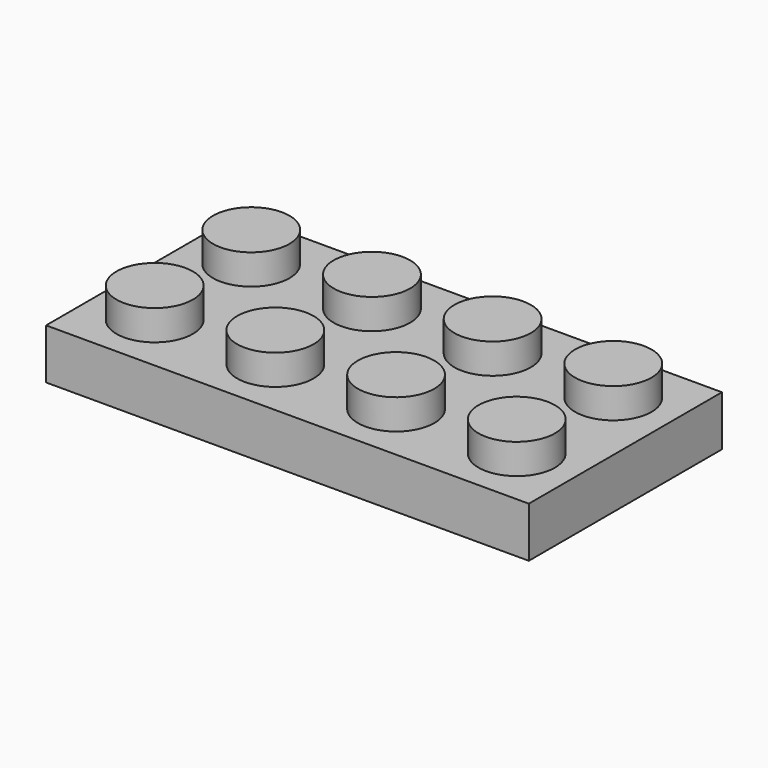
from build123d import *

# Parameters (mm, degrees)
F0_W      = 30.48
F0_H      = 15.24
F2_DEPTH  = 3.175
F1_R      = 2.413
F3_DEPTH  = 1.905
F5_R      = 1.27
F6_DEPTH  = 4.699
F4_W      = 27.94
F4_H      = 12.7
F4_R      = 3.175
F7_DEPTH  = 2.159
F8_DEPTH  = 4.699
F9_DEPTH  = 4.699
F4_R_2    = 2.54
F10_DEPTH = 2.159
F11_DEPTH = 2.159
F12_DEPTH = 2.159


with BuildPart() as f2:
    # F0 (on Top) → F2 (new body)
    with BuildSketch(Plane.XY):
        with Locations((-38.230583, 21.220251)):
            Rectangle(F0_W, F0_H)
    extrude(amount=-F2_DEPTH)

    # F1 (on face) → F3 (join)
    with BuildSketch(Plane.XY):
        with Locations((-26.800583, 25.030251)):
            Circle(F1_R)
        with Locations((-26.800583, 17.410251)):
            Circle(F1_R)
        with Locations((-34.420583, 25.030251)):
            Circle(F1_R)
        with Locations((-34.420583, 17.410251)):
            Circle(F1_R)
        with Locations((-42.040583, 25.030251)):
            Circle(F1_R)
        with Locations((-42.040583, 17.410251)):
            Circle(F1_R)
        with Locations((-49.660583, 25.030251)):
            Circle(F1_R)
        with Locations((-49.660583, 17.410251)):
            Circle(F1_R)
    extrude(amount=F3_DEPTH)

    # F5 (on face) → F6 (cut)
    with BuildSketch(Plane(origin=(0, 0, -3.175), x_dir=(1, 0, 0), z_dir=(0, 0, -1))):
        with Locations((-26.800583, -25.030251)):
            Circle(F5_R)
        with Locations((-34.420583, -25.030251)):
            Circle(F5_R)
        with Locations((-42.040583, -25.030251)):
            Circle(F5_R)
        with Locations((-49.660583, -25.030251)):
            Circle(F5_R)
        with Locations((-26.800583, -17.410251)):
            Circle(F5_R)
        with Locations((-34.420583, -17.410251)):
            Circle(F5_R)
        with Locations((-42.040583, -17.410251)):
            Circle(F5_R)
        with Locations((-49.660583, -17.410251)):
            Circle(F5_R)
    extrude(amount=-F6_DEPTH, mode=Mode.SUBTRACT)

    # F4 (on face) → F7 (cut)
    with BuildSketch(Plane(origin=(0, 0, -3.175), x_dir=(1, 0, 0), z_dir=(0, 0, -1))):
        with Locations((-38.230583, -21.220251)):
            Rectangle(F4_W, F4_H)
        with Locations((-45.850583, -21.220251)):
            Circle(F4_R, mode=Mode.SUBTRACT)
        with Locations((-38.230583, -21.220251)):
            Circle(F4_R, mode=Mode.SUBTRACT)
        with Locations((-30.610583, -21.220251)):
            Circle(F4_R, mode=Mode.SUBTRACT)
    extrude(amount=-F7_DEPTH, mode=Mode.SUBTRACT)

    # F5 (on face) → F8 (join)
    with BuildSketch(Plane(origin=(0, 0, -3.175), x_dir=(1, 0, 0), z_dir=(0, 0, -1))):
        with Locations((-49.660583, -25.030251)):
            Circle(F5_R)
    extrude(amount=-F8_DEPTH)

    # F5 (on face) → F9 (cut)
    with BuildSketch(Plane(origin=(0, 0, -3.175), x_dir=(1, 0, 0), z_dir=(0, 0, -1))):
        with Locations((-49.660583, -25.030251)):
            Circle(F5_R)
    extrude(amount=-F9_DEPTH, mode=Mode.SUBTRACT)

    # F4 (on face) → F10 (cut)
    with BuildSketch(Plane(origin=(0, 0, -3.175), x_dir=(1, 0, 0), z_dir=(0, 0, -1))):
        with Locations((-45.850583, -21.220251)):
            Circle(F4_R_2)
    extrude(amount=-F10_DEPTH, mode=Mode.SUBTRACT)

    # F4 (on face) → F11 (cut)
    with BuildSketch(Plane(origin=(0, 0, -3.175), x_dir=(1, 0, 0), z_dir=(0, 0, -1))):
        with Locations((-30.610583, -21.220251)):
            Circle(F4_R_2)
    extrude(amount=-F11_DEPTH, mode=Mode.SUBTRACT)

    # F4 (on face) → F12 (cut)
    with BuildSketch(Plane(origin=(0, 0, -3.175), x_dir=(1, 0, 0), z_dir=(0, 0, -1))):
        with Locations((-38.230583, -21.220251)):
            Circle(F4_R_2)
    extrude(amount=-F12_DEPTH, mode=Mode.SUBTRACT)


solid = f2.part
